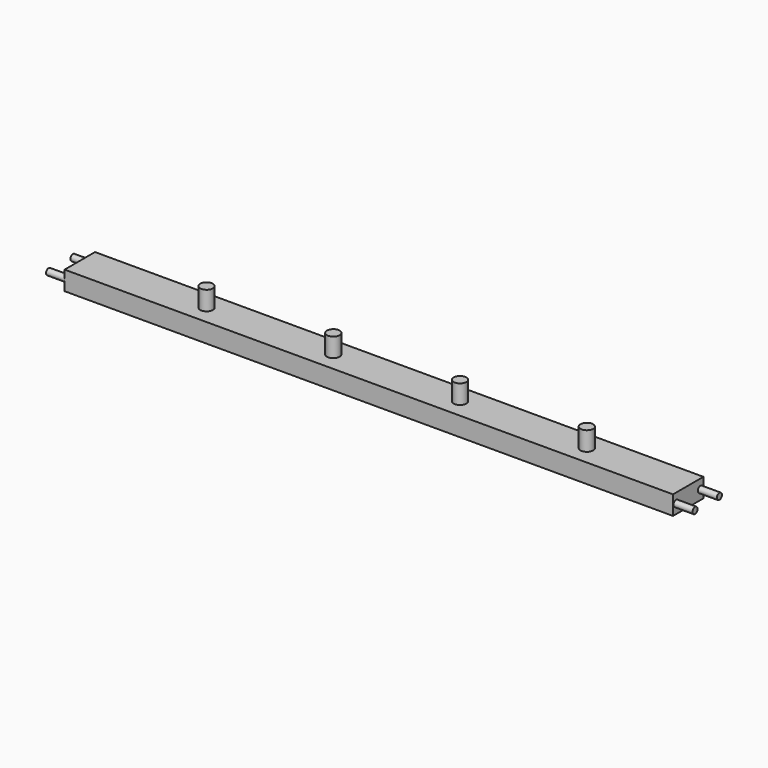
from build123d import *

# Parameters (mm, degrees)
F0_W     = 1219.2
F0_H     = 76.2
F1_DEPTH = 38.1
F2_R     = 12.7
F3_DEPTH = 38.1
F5_DEPTH = 38.1
F7_DEPTH = 38.1


with BuildPart() as f1:
    # F0 (on Top) → F1 (new body)
    with BuildSketch(Plane.XY):
        with Locations((464.734342, -10.029948)):
            Rectangle(F0_W, F0_H)
    extrude(amount=F1_DEPTH)

    # F2 (on face) → F3 (join)
    with BuildSketch(Plane.XY.offset(38.1)):
        with Locations((109.134342, -10.029948)):
            Circle(F2_R)
        with Locations((363.134342, -10.029948)):
            Circle(F2_R)
        with Locations((617.134342, -10.029948)):
            Circle(F2_R)
        with Locations((871.134342, -10.029948)):
            Circle(F2_R)
    extrude(amount=F3_DEPTH)

    # F4 (on face) → F5 (join)
    with BuildSketch(Plane(origin=(-144.865658, 0, 0), x_dir=(0, -1, 0), z_dir=(-1, 0, 0))):
        with BuildLine():
            ThreePointArc((-14.100052, 19.05), (-20.450052, 25.4), (-26.800052, 19.05))
            Line((-26.800052, 19.05), (-14.100052, 19.05))
        make_face()
        with BuildLine():
            ThreePointArc((46.859948, 19.05), (40.509948, 25.4), (34.159948, 19.05))
            Line((34.159948, 19.05), (46.859948, 19.05))
        make_face()
        with BuildLine():
            Line((46.859948, 19.05), (34.159948, 19.05))
            ThreePointArc((34.159948, 19.05), (40.509948, 12.7), (46.859948, 19.05))
        make_face()
        with BuildLine():
            Line((-14.100052, 19.05), (-26.800052, 19.05))
            ThreePointArc((-26.800052, 19.05), (-20.450052, 12.7), (-14.100052, 19.05))
        make_face()
    extrude(amount=F5_DEPTH)

    # F6 (on face) → F7 (join)
    with BuildSketch(Plane.YZ.offset(1074.334342)):
        with BuildLine():
            ThreePointArc((-34.159948, 19.05), (-40.509948, 25.4), (-46.859948, 19.05))
            Line((-46.859948, 19.05), (-34.159948, 19.05))
        make_face()
        with BuildLine():
            ThreePointArc((26.800052, 19.05), (20.450052, 25.4), (14.100052, 19.05))
            Line((14.100052, 19.05), (26.800052, 19.05))
        make_face()
        with BuildLine():
            Line((26.800052, 19.05), (14.100052, 19.05))
            ThreePointArc((14.100052, 19.05), (20.450052, 12.7), (26.800052, 19.05))
        make_face()
        with BuildLine():
            Line((-34.159948, 19.05), (-46.859948, 19.05))
            ThreePointArc((-46.859948, 19.05), (-40.509948, 12.7), (-34.159948, 19.05))
        make_face()
    extrude(amount=F7_DEPTH)


solid = f1.part
